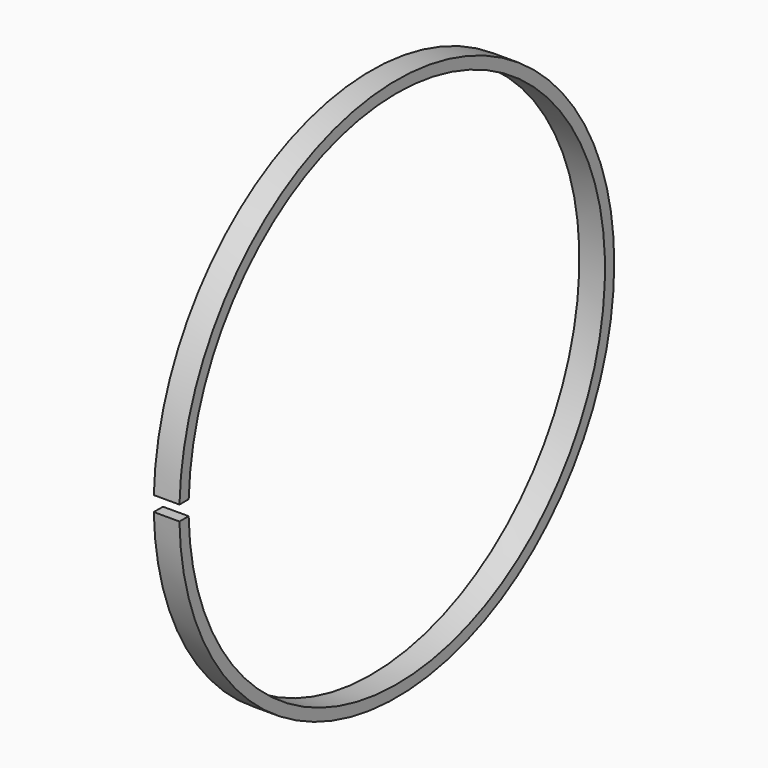
from build123d import *

# Parameters (mm, degrees)
F1_DEPTH = 1.27


with BuildPart() as f1:
    # F0 (on Right) → F1 (new body)
    with BuildSketch(Plane.YZ):
        with BuildLine():
            Line((-12.886494, -0.321327), (-13.458165, -0.321327))
            ThreePointArc((-13.458165, -0.321327), (13.461919, -0.046775), (-13.455607, 0.414841))
            Line((-13.455607, 0.414841), (-12.883823, 0.414841))
            ThreePointArc((-12.883823, 0.414841), (12.890415, -0.046776), (-12.886494, -0.321327))
        make_face()
    extrude(amount=-F1_DEPTH)


solid = f1.part
